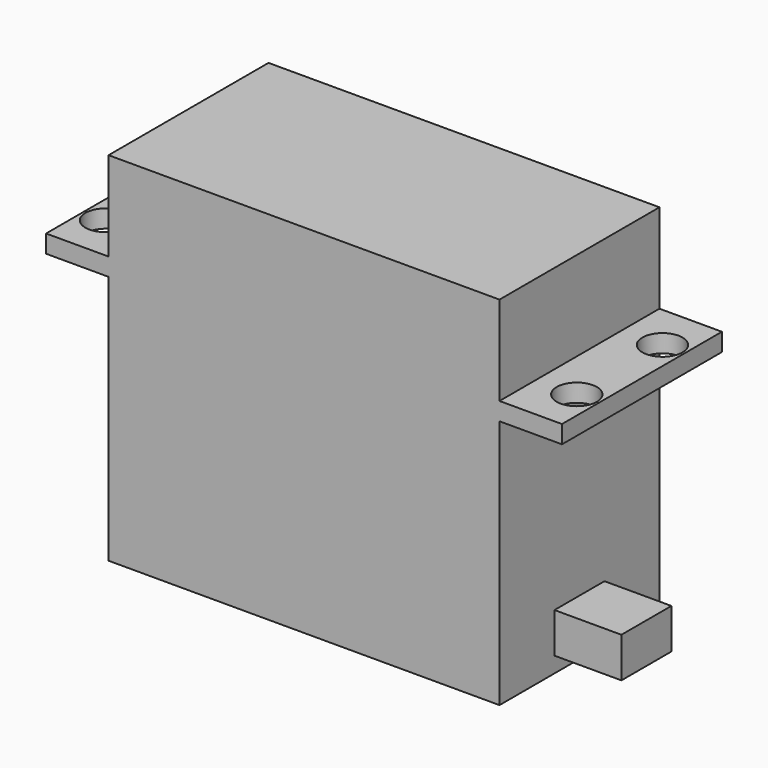
from build123d import *

# Parameters (mm, degrees)
F0_W     = 21.9
F0_H     = 22.4
F1_DEPTH = 40
F2_START = 28
F0_W_2   = 7
F2_DEPTH = 2
F3_D     = 4.5
F5_W     = 7
F5_H     = 4.5
F6_DEPTH = 7.5


with BuildPart() as f1:
    # F0 (on Top) → F1 (new body)
    with BuildSketch(Plane.XY):
        with Locations((10.95, 0)):
            Rectangle(F0_W, F0_H)
    extrude(amount=F1_DEPTH)

    # F0 (on Top) → F2 (join)
    with BuildSketch(Plane.XY.offset(F2_START)):
        with Locations((25.4, 0)):
            Rectangle(F0_W_2, F0_H)
    extrude(amount=F2_DEPTH)

    # F3 (through all)
    with Locations(Plane(origin=(0, 0, 0), x_dir=(1, 0, 0), z_dir=(0, 0, -1))):
        with Locations((26.4, 6), (26.4, -6)):
            Hole(F3_D / 2)

    # F4: F1 across face


with BuildPart() as f1_1:
    add(f1.part)
    add(f1.part.mirror(Plane(origin=(0, 0, 20), x_dir=(0, -1, 0), z_dir=(-1, 0, 0))))

    # F5 (on face) → F6 (join)
    with BuildSketch(Plane.YZ.offset(21.9)):
        with Locations((0, 4)):
            Rectangle(F5_W, F5_H)
    extrude(amount=F6_DEPTH)


solid = f1_1.part
